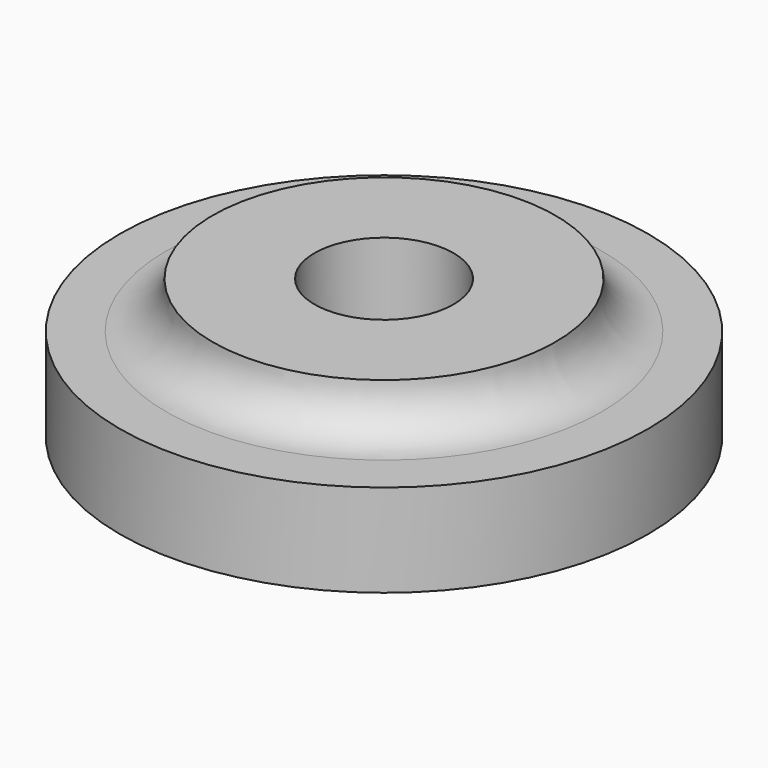
from build123d import *

# Parameters (mm, degrees)
F0_R      = 15.875
F1_DEPTH  = 12.7
F5_R      = 3.175
F6_DEPTH  = 12.701
F7_R      = 20.024716
F7_R_2    = 12.065
F8_DEPTH  = 12.701
F10_R     = 20.449892
F10_R_2   = 1.769063
F11_DEPTH = 6.35


with BuildPart() as f1:
    # F0 (on Top) → F1 (new body)
    with BuildSketch(Plane.XY):
        Circle(F0_R)
    extrude(amount=F1_DEPTH)

    # F2 (on Right) → F4 (revolve, cut)
    with BuildSketch(Plane.YZ):
        with BuildLine():
            Line((-12.065, 8.466667), (-12.065, 4.233333))
            Line((-12.065, 4.233333), (-9.948333, 4.233333))
            ThreePointArc((-9.948333, 4.233333), (-7.831667, 6.35), (-9.948333, 8.466667))
            Line((-9.948333, 8.466667), (-12.065, 8.466667))
        make_face()
    revolve(axis=Axis((0, 0, 11.412669), (0, 0, 1)), mode=Mode.SUBTRACT)

    # F5 (on face) → F6 (cut, through all)
    with BuildSketch(Plane.XY.offset(12.7)):
        Circle(F5_R)
    extrude(amount=-F6_DEPTH, mode=Mode.SUBTRACT)

    # F7 (on face) → F8 (cut, through all)
    with BuildSketch(Plane.XY.offset(12.7)):
        Circle(F7_R)
        Circle(F7_R_2, mode=Mode.SUBTRACT)
    extrude(amount=-F8_DEPTH, mode=Mode.SUBTRACT)

    # F10 (on face) → F11 (cut, through all)
    with BuildSketch(Plane.XY.offset(12.7)):
        Circle(F10_R)
        Circle(F10_R_2, mode=Mode.SUBTRACT)
    extrude(amount=-F11_DEPTH, mode=Mode.SUBTRACT)


solid = f1.part
